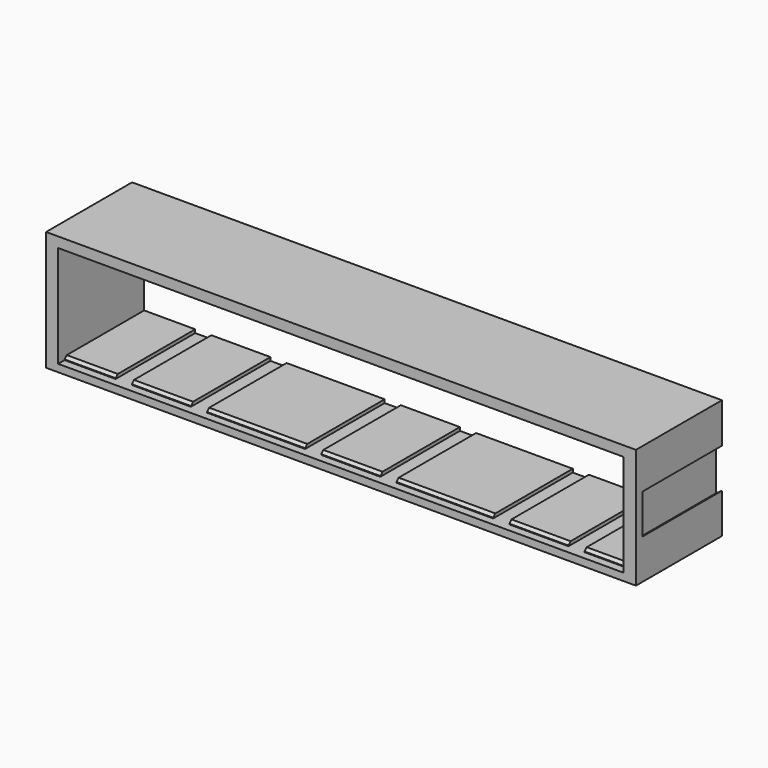
from build123d import *

# Parameters (mm, degrees)
BOX031_W               = 85
BOX031_H               = 10
BOX031_DEPTH           = 10
BOX031_PLACEMENT_ANGLE = 45
BOX030_W               = 3
BOX030_H               = 37
BOX030_DEPTH           = 4
BOX032_W               = 4
BOX032_H               = 37
BOX032_DEPTH           = 4
BOX033_W               = 54
BOX033_H               = 37
BOX033_DEPTH           = 4
BOX035_W               = 85
BOX035_H               = 10
BOX035_DEPTH           = 10
BOX035_PLACEMENT_ANGLE = 45
BOX037_W               = 3
BOX037_H               = 37
BOX037_DEPTH           = 4
BOX034_W               = 4
BOX034_H               = 37
BOX034_DEPTH           = 4
BOX036_W               = 54
BOX036_H               = 37
BOX036_DEPTH           = 4
BOX039_W               = 85
BOX039_H               = 10
BOX039_DEPTH           = 10
BOX039_PLACEMENT_ANGLE = 45
BOX041_W               = 3
BOX041_H               = 37
BOX041_DEPTH           = 4
BOX038_W               = 4
BOX038_H               = 37
BOX038_DEPTH           = 4
BOX040_W               = 54
BOX040_H               = 37
BOX040_DEPTH           = 4
BOX045_W               = 71
BOX045_H               = 10
BOX045_DEPTH           = 10
BOX045_PLACEMENT_ANGLE = 45
BOX044_W               = 22
BOX044_H               = 37
BOX044_DEPTH           = 4
BOX042_W               = 18
BOX042_H               = 37
BOX042_DEPTH           = 4
BOX043_W               = 19
BOX043_H               = 37
BOX043_DEPTH           = 4
BOX049_W               = 71
BOX049_H               = 10
BOX049_DEPTH           = 10
BOX049_PLACEMENT_ANGLE = 45
BOX048_W               = 22
BOX048_H               = 37
BOX048_DEPTH           = 4
BOX046_W               = 18
BOX046_H               = 37
BOX046_DEPTH           = 4
BOX047_W               = 19
BOX047_H               = 37
BOX047_DEPTH           = 4
BOX053_W               = 71
BOX053_H               = 10
BOX053_DEPTH           = 10
BOX053_PLACEMENT_ANGLE = 45
BOX052_W               = 22
BOX052_H               = 37
BOX052_DEPTH           = 4
BOX050_W               = 18
BOX050_H               = 37
BOX050_DEPTH           = 4
BOX051_W               = 19
BOX051_H               = 37
BOX051_DEPTH           = 4
BOX029_W               = 210.4
BOX029_H               = 45
BOX029_DEPTH           = 37.95
BOX010_W               = 3
BOX010_H               = 37
BOX010_DEPTH           = 17.92
BOX010_PLACEMENT_ANGLE = 45
BOX008_W               = 3
BOX008_H               = 37
BOX008_DEPTH           = 17.92
BOX008_PLACEMENT_ANGLE = 55
BOX009_W               = 3
BOX009_H               = 37
BOX009_DEPTH           = 17.92
BOX009_PLACEMENT_ANGLE = 125
BOX011_W               = 3
BOX011_H               = 37
BOX011_DEPTH           = 17.92
CUT004_PLACEMENT_ANGLE = 180
BOX007_W               = 3
BOX007_H               = 37
BOX007_DEPTH           = 17.92
BOX007_PLACEMENT_ANGLE = 45
BOX005_W               = 3
BOX005_H               = 37
BOX005_DEPTH           = 17.92
BOX005_PLACEMENT_ANGLE = 55
BOX006_W               = 3
BOX006_H               = 37
BOX006_DEPTH           = 17.92
BOX006_PLACEMENT_ANGLE = 125
BOX004_W               = 3
BOX004_H               = 37
BOX004_DEPTH           = 17.92
BOX002_W               = 219.5
BOX002_H               = 40
BOX002_DEPTH           = 44.5


with BuildPart() as cube031:
    # Box031 → Box031 (new body)
    with BuildSketch(Plane.XY):
        with Locations((42.5, 5)):
            Rectangle(BOX031_W, BOX031_H)
    extrude(amount=BOX031_DEPTH)


with BuildPart() as cube031_1:
    # Box031 placement: moved
    add(cube031.part.moved(Location((13, -8, 35))).rotate(Axis((13, -8, 35), (-1, 0, 0)), BOX031_PLACEMENT_ANGLE))


with BuildPart() as cube030:
    # Box030 → Box030 (new body)
    with BuildSketch(Plane(origin=(21.05, 0, 39.45), x_dir=(1, 0, 0), z_dir=(0, 0, 1))):
        with Locations((1.5, 18.5)):
            Rectangle(BOX030_W, BOX030_H)
    extrude(amount=BOX030_DEPTH)


with BuildPart() as cube032:
    # Box032 → Box032 (new body)
    with BuildSketch(Plane(origin=(90.05, 0, 39.45), x_dir=(1, 0, 0), z_dir=(0, 0, 1))):
        with Locations((2, 18.5)):
            Rectangle(BOX032_W, BOX032_H)
    extrude(amount=BOX032_DEPTH)


with BuildPart() as cut013:
    # Box033 → Box033 (new body)
    with BuildSketch(Plane(origin=(30.05, 0, 39.45), x_dir=(1, 0, 0), z_dir=(0, 0, 1))):
        with Locations((27, 18.5)):
            Rectangle(BOX033_W, BOX033_H)
    extrude(amount=BOX033_DEPTH)

    # Fusion008: union Cube030, Cube032
    add(cube030.part)
    add(cube032.part)

    # Cut013: cut Cube031
    add(cube031_1.part, mode=Mode.SUBTRACT)


with BuildPart() as cut013_1:
    # Cut013 placement: moved
    add(cut013.part.moved(Location((219.5, 0, 0))))


with BuildPart() as cube035:
    # Box035 → Box035 (new body)
    with BuildSketch(Plane.XY):
        with Locations((42.5, 5)):
            Rectangle(BOX035_W, BOX035_H)
    extrude(amount=BOX035_DEPTH)


with BuildPart() as cube035_1:
    # Box035 placement: moved
    add(cube035.part.moved(Location((13, -8, 35))).rotate(Axis((13, -8, 35), (-1, 0, 0)), BOX035_PLACEMENT_ANGLE))


with BuildPart() as cube037:
    # Box037 → Box037 (new body)
    with BuildSketch(Plane(origin=(21.05, 0, 39.45), x_dir=(1, 0, 0), z_dir=(0, 0, 1))):
        with Locations((1.5, 18.5)):
            Rectangle(BOX037_W, BOX037_H)
    extrude(amount=BOX037_DEPTH)


with BuildPart() as cube034:
    # Box034 → Box034 (new body)
    with BuildSketch(Plane(origin=(90.05, 0, 39.45), x_dir=(1, 0, 0), z_dir=(0, 0, 1))):
        with Locations((2, 18.5)):
            Rectangle(BOX034_W, BOX034_H)
    extrude(amount=BOX034_DEPTH)


with BuildPart() as cut014:
    # Box036 → Box036 (new body)
    with BuildSketch(Plane(origin=(30.05, 0, 39.45), x_dir=(1, 0, 0), z_dir=(0, 0, 1))):
        with Locations((27, 18.5)):
            Rectangle(BOX036_W, BOX036_H)
    extrude(amount=BOX036_DEPTH)

    # Fusion009: union Cube037, Cube034
    add(cube037.part)
    add(cube034.part)

    # Cut014: cut Cube035
    add(cube035_1.part, mode=Mode.SUBTRACT)


with BuildPart() as cut014_1:
    # Cut014 placement: moved
    add(cut014.part.moved(Location((149, 0, 0))))


with BuildPart() as cube039:
    # Box039 → Box039 (new body)
    with BuildSketch(Plane.XY):
        with Locations((42.5, 5)):
            Rectangle(BOX039_W, BOX039_H)
    extrude(amount=BOX039_DEPTH)


with BuildPart() as cube039_1:
    # Box039 placement: moved
    add(cube039.part.moved(Location((13, -8, 35))).rotate(Axis((13, -8, 35), (-1, 0, 0)), BOX039_PLACEMENT_ANGLE))


with BuildPart() as cube041:
    # Box041 → Box041 (new body)
    with BuildSketch(Plane(origin=(21.05, 0, 39.45), x_dir=(1, 0, 0), z_dir=(0, 0, 1))):
        with Locations((1.5, 18.5)):
            Rectangle(BOX041_W, BOX041_H)
    extrude(amount=BOX041_DEPTH)


with BuildPart() as cube038:
    # Box038 → Box038 (new body)
    with BuildSketch(Plane(origin=(90.05, 0, 39.45), x_dir=(1, 0, 0), z_dir=(0, 0, 1))):
        with Locations((2, 18.5)):
            Rectangle(BOX038_W, BOX038_H)
    extrude(amount=BOX038_DEPTH)


with BuildPart() as cut015:
    # Box040 → Box040 (new body)
    with BuildSketch(Plane(origin=(30.05, 0, 39.45), x_dir=(1, 0, 0), z_dir=(0, 0, 1))):
        with Locations((27, 18.5)):
            Rectangle(BOX040_W, BOX040_H)
    extrude(amount=BOX040_DEPTH)

    # Fusion010: union Cube041, Cube038
    add(cube041.part)
    add(cube038.part)

    # Cut015: cut Cube039
    add(cube039_1.part, mode=Mode.SUBTRACT)


with BuildPart() as cut015_1:
    # Cut015 placement: moved
    add(cut015.part.moved(Location((79, 0, 0))))


with BuildPart() as cube045:
    # Box045 → Box045 (new body)
    with BuildSketch(Plane.XY):
        with Locations((35.5, 5)):
            Rectangle(BOX045_W, BOX045_H)
    extrude(amount=BOX045_DEPTH)


with BuildPart() as cube045_1:
    # Box045 placement: moved
    add(cube045.part.moved(Location((22, -3, 0))).rotate(Axis((22, -3, 0), (1, 0, 0)), BOX045_PLACEMENT_ANGLE))


with BuildPart() as cube044:
    # Box044 → Box044 (new body)
    with BuildSketch(Plane(origin=(47, 0, 0), x_dir=(1, 0, 0), z_dir=(0, 0, 1))):
        with Locations((11, 18.5)):
            Rectangle(BOX044_W, BOX044_H)
    extrude(amount=BOX044_DEPTH)


with BuildPart() as cube042:
    # Box042 → Box042 (new body)
    with BuildSketch(Plane(origin=(75, 0, 0), x_dir=(1, 0, 0), z_dir=(0, 0, 1))):
        with Locations((9, 18.5)):
            Rectangle(BOX042_W, BOX042_H)
    extrude(amount=BOX042_DEPTH)


with BuildPart() as cut016:
    # Box043 → Box043 (new body)
    with BuildSketch(Plane(origin=(22, 0, 0), x_dir=(1, 0, 0), z_dir=(0, 0, 1))):
        with Locations((9.5, 18.5)):
            Rectangle(BOX043_W, BOX043_H)
    extrude(amount=BOX043_DEPTH)

    # Fusion011: union Cube044, Cube042
    add(cube044.part)
    add(cube042.part)

    # Cut016: cut Cube045
    add(cube045_1.part, mode=Mode.SUBTRACT)


with BuildPart() as cut016_1:
    # Cut016 placement: moved
    add(cut016.part.moved(Location((219.5, 0, 0))))


with BuildPart() as cube049:
    # Box049 → Box049 (new body)
    with BuildSketch(Plane.XY):
        with Locations((35.5, 5)):
            Rectangle(BOX049_W, BOX049_H)
    extrude(amount=BOX049_DEPTH)


with BuildPart() as cube049_1:
    # Box049 placement: moved
    add(cube049.part.moved(Location((22, -3, 0))).rotate(Axis((22, -3, 0), (1, 0, 0)), BOX049_PLACEMENT_ANGLE))


with BuildPart() as cube048:
    # Box048 → Box048 (new body)
    with BuildSketch(Plane(origin=(47, 0, 0), x_dir=(1, 0, 0), z_dir=(0, 0, 1))):
        with Locations((11, 18.5)):
            Rectangle(BOX048_W, BOX048_H)
    extrude(amount=BOX048_DEPTH)


with BuildPart() as cube046:
    # Box046 → Box046 (new body)
    with BuildSketch(Plane(origin=(75, 0, 0), x_dir=(1, 0, 0), z_dir=(0, 0, 1))):
        with Locations((9, 18.5)):
            Rectangle(BOX046_W, BOX046_H)
    extrude(amount=BOX046_DEPTH)


with BuildPart() as cut017:
    # Box047 → Box047 (new body)
    with BuildSketch(Plane(origin=(22, 0, 0), x_dir=(1, 0, 0), z_dir=(0, 0, 1))):
        with Locations((9.5, 18.5)):
            Rectangle(BOX047_W, BOX047_H)
    extrude(amount=BOX047_DEPTH)

    # Fusion012: union Cube048, Cube046
    add(cube048.part)
    add(cube046.part)

    # Cut017: cut Cube049
    add(cube049_1.part, mode=Mode.SUBTRACT)


with BuildPart() as cut017_1:
    # Cut017 placement: moved
    add(cut017.part.moved(Location((149.5, 0, 0))))


with BuildPart() as cube053:
    # Box053 → Box053 (new body)
    with BuildSketch(Plane.XY):
        with Locations((35.5, 5)):
            Rectangle(BOX053_W, BOX053_H)
    extrude(amount=BOX053_DEPTH)


with BuildPart() as cube053_1:
    # Box053 placement: moved
    add(cube053.part.moved(Location((22, -3, 0))).rotate(Axis((22, -3, 0), (1, 0, 0)), BOX053_PLACEMENT_ANGLE))


with BuildPart() as cube052:
    # Box052 → Box052 (new body)
    with BuildSketch(Plane(origin=(47, 0, 0), x_dir=(1, 0, 0), z_dir=(0, 0, 1))):
        with Locations((11, 18.5)):
            Rectangle(BOX052_W, BOX052_H)
    extrude(amount=BOX052_DEPTH)


with BuildPart() as cube050:
    # Box050 → Box050 (new body)
    with BuildSketch(Plane(origin=(75, 0, 0), x_dir=(1, 0, 0), z_dir=(0, 0, 1))):
        with Locations((9, 18.5)):
            Rectangle(BOX050_W, BOX050_H)
    extrude(amount=BOX050_DEPTH)


with BuildPart() as cut018:
    # Box051 → Box051 (new body)
    with BuildSketch(Plane(origin=(22, 0, 0), x_dir=(1, 0, 0), z_dir=(0, 0, 1))):
        with Locations((9.5, 18.5)):
            Rectangle(BOX051_W, BOX051_H)
    extrude(amount=BOX051_DEPTH)

    # Fusion013: union Cube052, Cube050
    add(cube052.part)
    add(cube050.part)

    # Cut018: cut Cube053
    add(cube053_1.part, mode=Mode.SUBTRACT)


with BuildPart() as cut018_1:
    # Cut018 placement: moved
    add(cut018.part.moved(Location((79, 0, 0))))


with BuildPart() as cube029:
    # Box029 → Box029 (new body)
    with BuildSketch(Plane(origin=(101, -4, 2.75), x_dir=(1, 0, 0), z_dir=(0, 0, 1))):
        with Locations((105.2, 22.5)):
            Rectangle(BOX029_W, BOX029_H)
    extrude(amount=BOX029_DEPTH)


with BuildPart() as cube010:
    # Box010 → Box010 (new body)
    with BuildSketch(Plane.XY):
        with Locations((1.5, 18.5)):
            Rectangle(BOX010_W, BOX010_H)
    extrude(amount=BOX010_DEPTH)


with BuildPart() as cube010_1:
    # Box010 placement: moved
    add(cube010.part.moved(Location((314.75, -3, 13.25))).rotate(Axis((314.75, -3, 13.25), (0, 0, 1)), BOX010_PLACEMENT_ANGLE))


with BuildPart() as cube008:
    # Box008 → Box008 (new body)
    with BuildSketch(Plane.XY):
        with Locations((1.5, 18.5)):
            Rectangle(BOX008_W, BOX008_H)
    extrude(amount=BOX008_DEPTH)


with BuildPart() as cube008_1:
    # Box008 placement: moved
    add(cube008.part.moved(Location((313, 0, 12.75))).rotate(Axis((313, 0, 12.75), (0, 1, 0)), BOX008_PLACEMENT_ANGLE))


with BuildPart() as fusion001:
    # Box009 → Box009 (new body)
    with BuildSketch(Plane.XY):
        with Locations((1.5, 18.5)):
            Rectangle(BOX009_W, BOX009_H)
    extrude(amount=BOX009_DEPTH)


with BuildPart() as fusion001_1:
    # Box009 placement: moved
    add(fusion001.part.moved(Location((313, 0, 35.35))).rotate(Axis((313, 0, 35.35), (0, 1, 0)), BOX009_PLACEMENT_ANGLE))

    # Fusion001: union Cube008
    add(cube008_1.part)


with BuildPart() as cut004:
    # Box011 → Box011 (new body)
    with BuildSketch(Plane(origin=(313.75, 0, 13.25), x_dir=(1, 0, 0), z_dir=(0, 0, 1))):
        with Locations((1.5, 18.5)):
            Rectangle(BOX011_W, BOX011_H)
    extrude(amount=BOX011_DEPTH)

    # Cut003: cut Fusion001
    add(fusion001_1.part, mode=Mode.SUBTRACT)

    # Cut004: cut Cube010
    add(cube010_1.part, mode=Mode.SUBTRACT)


with BuildPart() as cut004_1:
    # Cut004 placement: moved
    add(cut004.part.moved(Location((413.25, 0, 44.45))).rotate(Axis((413.25, 0, 44.45), (0, 1, 0)), CUT004_PLACEMENT_ANGLE))


with BuildPart() as cube007:
    # Box007 → Box007 (new body)
    with BuildSketch(Plane.XY):
        with Locations((1.5, 18.5)):
            Rectangle(BOX007_W, BOX007_H)
    extrude(amount=BOX007_DEPTH)


with BuildPart() as cube007_1:
    # Box007 placement: moved
    add(cube007.part.moved(Location((314.75, -3, 13.25))).rotate(Axis((314.75, -3, 13.25), (0, 0, 1)), BOX007_PLACEMENT_ANGLE))


with BuildPart() as cube005:
    # Box005 → Box005 (new body)
    with BuildSketch(Plane.XY):
        with Locations((1.5, 18.5)):
            Rectangle(BOX005_W, BOX005_H)
    extrude(amount=BOX005_DEPTH)


with BuildPart() as cube005_1:
    # Box005 placement: moved
    add(cube005.part.moved(Location((313, 0, 12.75))).rotate(Axis((313, 0, 12.75), (0, 1, 0)), BOX005_PLACEMENT_ANGLE))


with BuildPart() as fusion:
    # Box006 → Box006 (new body)
    with BuildSketch(Plane.XY):
        with Locations((1.5, 18.5)):
            Rectangle(BOX006_W, BOX006_H)
    extrude(amount=BOX006_DEPTH)


with BuildPart() as fusion_1:
    # Box006 placement: moved
    add(fusion.part.moved(Location((313, 0, 35.35))).rotate(Axis((313, 0, 35.35), (0, 1, 0)), BOX006_PLACEMENT_ANGLE))

    # Fusion: union Cube005
    add(cube005_1.part)


with BuildPart() as cut001:
    # Box004 → Box004 (new body)
    with BuildSketch(Plane(origin=(313.75, 0, 13.25), x_dir=(1, 0, 0), z_dir=(0, 0, 1))):
        with Locations((1.5, 18.5)):
            Rectangle(BOX004_W, BOX004_H)
    extrude(amount=BOX004_DEPTH)

    # Cut: cut Fusion
    add(fusion_1.part, mode=Mode.SUBTRACT)

    # Cut001: cut Cube007
    add(cube007_1.part, mode=Mode.SUBTRACT)


with BuildPart() as rack_middle_wider:
    # Box002 → Box002 (new body)
    with BuildSketch(Plane(origin=(96.5, -3, 0), x_dir=(1, 0, 0), z_dir=(0, 0, 1))):
        with Locations((109.75, 20)):
            Rectangle(BOX002_W, BOX002_H)
    extrude(amount=BOX002_DEPTH)

    # Cut002: cut Cut001
    add(cut001.part, mode=Mode.SUBTRACT)

    # Cut005: cut Cut004
    add(cut004_1.part, mode=Mode.SUBTRACT)

    # Cut012: cut Cube029
    add(cube029.part, mode=Mode.SUBTRACT)

    # Fusion014: union Cut013, Cut014, Cut015, Cut016, Cut017, Cut018
    add(cut013_1.part)
    add(cut014_1.part)
    add(cut015_1.part)
    add(cut016_1.part)
    add(cut017_1.part)
    add(cut018_1.part)


solid = rack_middle_wider.part
